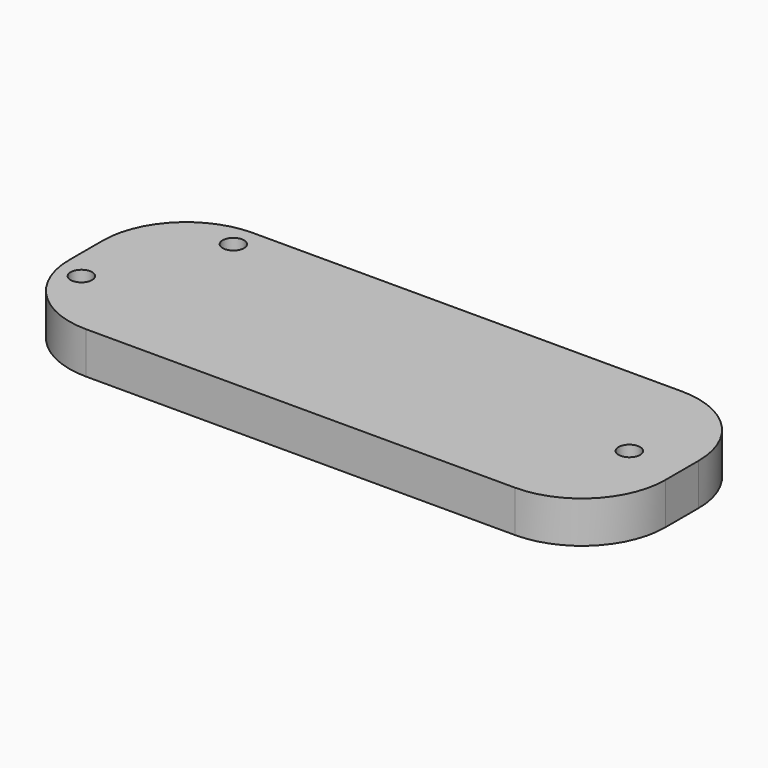
from build123d import *

# Parameters (mm, degrees)
F1_DEPTH = 3.5
F2_R     = 1.8
F3_DEPTH = 8
F4_R     = 1.8
F5_DEPTH = 7
F6_R     = 1.8
F7_DEPTH = 7


with BuildPart() as f1:
    # F0 (on Top) → F1 (new body, symmetric)
    with BuildSketch(Plane.XY):
        with BuildLine():
            ThreePointArc((50, 3.5), (45.899495, 13.399495), (36, 17.5))
            Line((36, 17.5), (-36, 17.5))
            ThreePointArc((-36, 17.5), (-45.899495, 13.399495), (-50, 3.5))
            Line((-50, 3.5), (-50, -3.5))
            ThreePointArc((-50, -3.5), (-45.899495, -13.399495), (-36, -17.5))
            Line((-36, -17.5), (36, -17.5))
            ThreePointArc((36, -17.5), (45.899495, -13.399495), (50, -3.5))
            Line((50, -3.5), (50, 3.5))
        make_face()
    extrude(amount=F1_DEPTH, both=True)

    # F2 (on face) → F3 (cut)
    with BuildSketch(Plane.XY.offset(3.5)):
        with Locations((41.173264, 0)):
            Circle(F2_R)
    extrude(amount=-F3_DEPTH, mode=Mode.SUBTRACT)

    # F4 (on face) → F5 (cut)
    with BuildSketch(Plane.XY.offset(3.5)):
        with Locations((-45.899495, -6.105367)):
            Circle(F4_R)
    extrude(amount=-F5_DEPTH, mode=Mode.SUBTRACT)

    # F6 (on face) → F7 (cut)
    with BuildSketch(Plane.XY.offset(3.5)):
        with Locations((-36, 13.399495)):
            Circle(F6_R)
    extrude(amount=-F7_DEPTH, mode=Mode.SUBTRACT)


solid = f1.part
